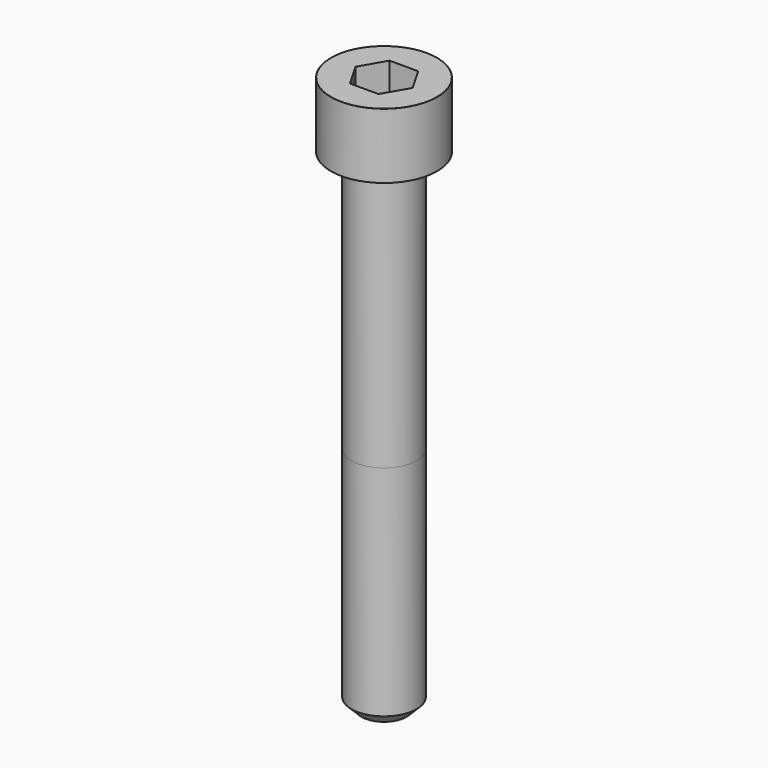
from build123d import *

# Parameters (mm, degrees)
POCKET_DEPTH = 6.06


with BuildPart() as part:
    # Sketch → Revolve (revolve)
    with BuildSketch(Plane.YZ):
        with BuildLine():
            Line((3.999, 0), (6.5, 0))
            Line((6.5, 0), (6.5, 7.97229))
            ThreePointArc((6.5, 7.97229), (6.491884, 7.991884), (6.47229, 8))
            Line((6.47229, 8), (0, 8))
            Line((0, -60), (0, 8))
            Line((2.75, -60), (0, -60))
            Line((4, -58.75), (2.75, -60))
            Line((4, -32), (4, -58.75))
            Line((3.999, 0), (4, -32))
        make_face()
    revolve(axis=Axis((0, 0, 0), (0, 0, 1)))

    # Sketch001 → Pocket (cut)
    with BuildSketch(Plane.XY.offset(8)):
        Polygon((3.498743, 0), (1.749371, 3.03), (-1.749371, 3.03), (-3.498743, 0), (-1.749371, -3.03), (1.749371, -3.03), align=None)
    extrude(amount=-POCKET_DEPTH, mode=Mode.SUBTRACT)


solid = part.part
